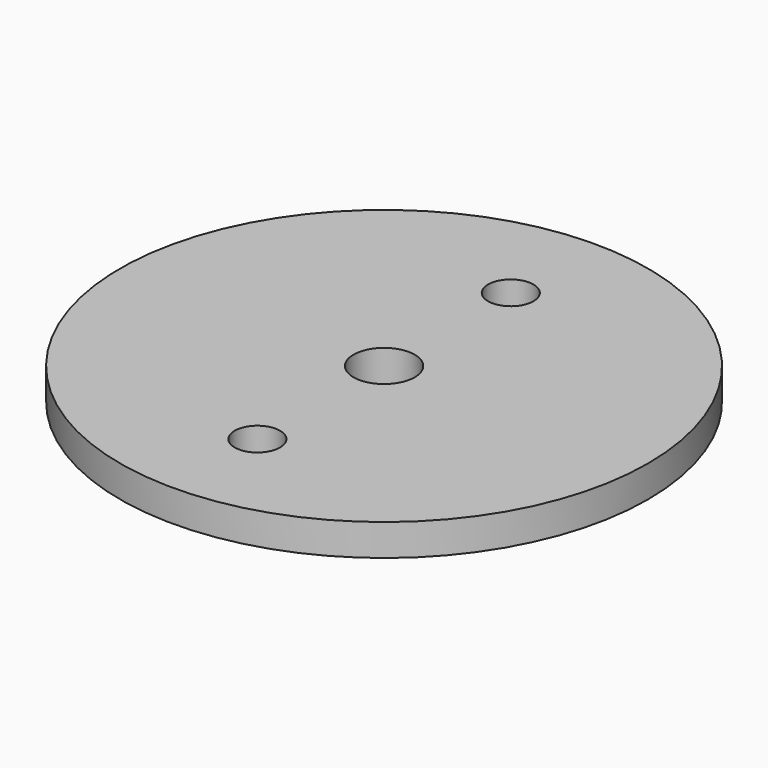
from build123d import *

# Parameters (mm, degrees)
F0_R     = 25
F0_R_2   = 2.15
F1_DEPTH = 3
F2_R     = 2.9
F3_DEPTH = 3.001


with BuildPart() as f1:
    # F0 (on Top) → F1 (new body)
    with BuildSketch(Plane.XY):
        Circle(F0_R)
        with Locations((0, -15)):
            Circle(F0_R_2, mode=Mode.SUBTRACT)
        with Locations((0, 15)):
            Circle(F0_R_2, mode=Mode.SUBTRACT)
    extrude(amount=F1_DEPTH)

    # F2 (on face) → F3 (cut, through all)
    with BuildSketch(Plane.XY.offset(3)):
        Circle(F2_R)
    extrude(amount=-F3_DEPTH, mode=Mode.SUBTRACT)


solid = f1.part
